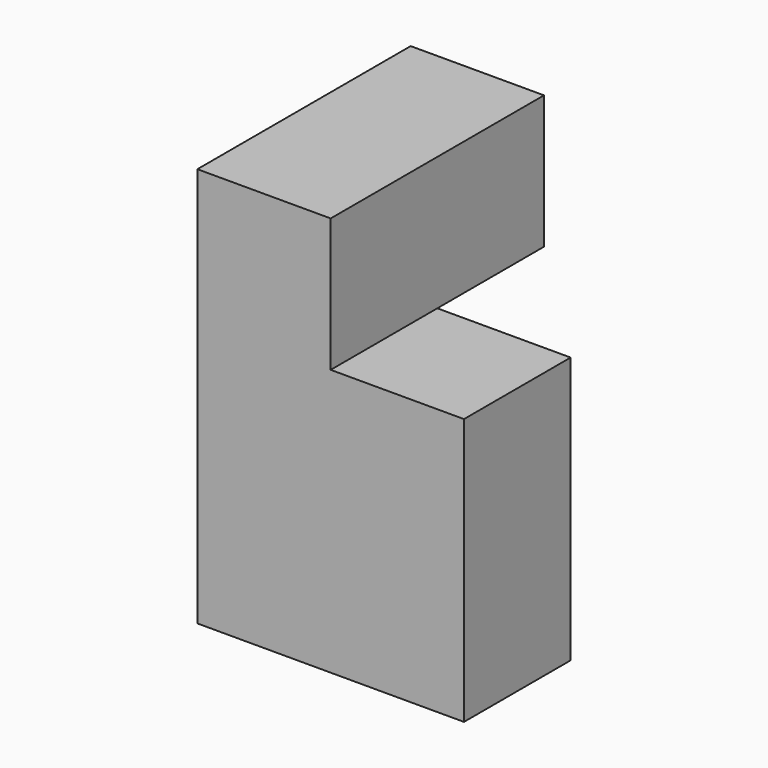
from build123d import *

# Parameters (mm, degrees)
F0_W     = 19.05
F0_H     = 19.05
F1_DEPTH = 19.05
F2_DEPTH = 19.05
F3_DEPTH = 19.05
F4_W     = 19.05
F4_H     = 19.05
F5_DEPTH = 19.05
F6_W     = 19.05
F6_H     = 19.05
F7_DEPTH = 19.05


with BuildPart() as f1:
    # F0 (on Top) → F1 (new body)
    with BuildSketch(Plane.XY):
        with Locations((9.525, 9.525)):
            Rectangle(F0_W, F0_H)
    extrude(amount=F1_DEPTH)

    # F2 (add): a face of the model
    f2_faces = [f1.faces().sort_by_distance(p)[0] for p in [
        (19.05, 9.525, 9.525),
    ]]
    extrude(f2_faces, amount=F2_DEPTH)

    # F3 (add): a face of the model
    f3_faces = [f1.faces().sort_by_distance(p)[0] for p in [
        (19.05, 9.525, 19.05),
    ]]
    extrude(f3_faces, amount=F3_DEPTH)

    # F4 (on face) → F5 (join)
    with BuildSketch(Plane.XY.offset(38.1)):
        with Locations((9.525, 9.525)):
            Rectangle(F4_W, F4_H)
    extrude(amount=F5_DEPTH)

    # F6 (on face) → F7 (join)
    with BuildSketch(Plane(origin=(0, 19.05, 0), x_dir=(-1, 0, 0), z_dir=(0, 1, 0))):
        with Locations((-9.525, 47.625)):
            Rectangle(F6_W, F6_H)
    extrude(amount=F7_DEPTH)


solid = f1.part
